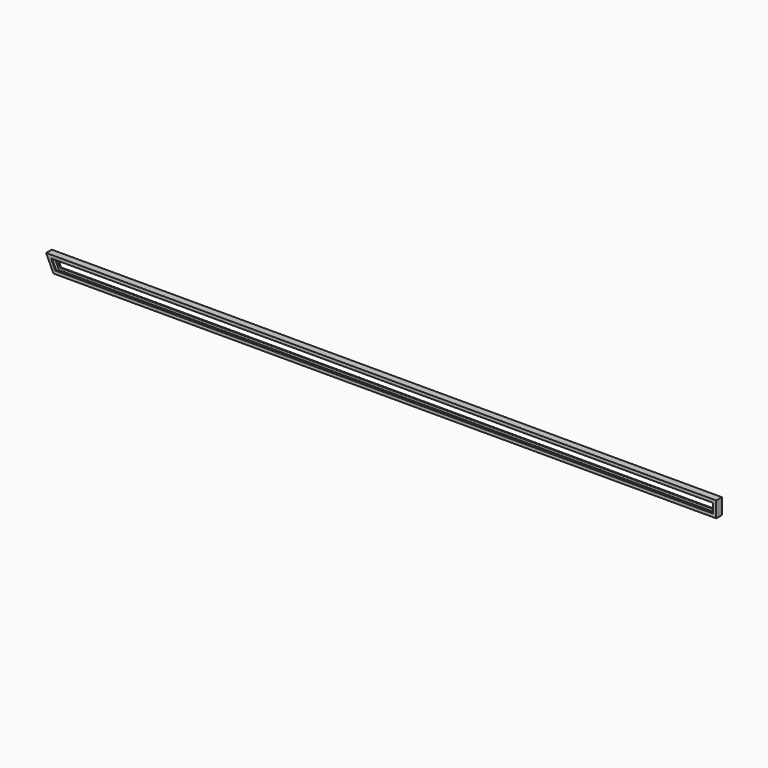
from build123d import *


with BuildPart() as f2:
    # F2: sweep along a path in F0
    with BuildLine(Plane.XZ) as f2_path:
        Line((0, 0), (8407, 0))
        Line((8407, 0), (8407, 200))
        Line((8407, 200), (-93, 200))
        Line((-93, 200), (0, 0))
    # F1 (on Right) → F2 (sweep)
    with BuildSketch(Plane.YZ):
        Polygon((-45, 0), (0, 0), (45, 0), (45, 40), (33, 40), (33, 37), (42, 37), (42, 3), (0, 3), (-42, 3), (-42, 37), (-33, 37), (-33, 40), (-45, 40), align=None)
    sweep(path=f2_path.line, transition=Transition.RIGHT)


solid = f2.part
